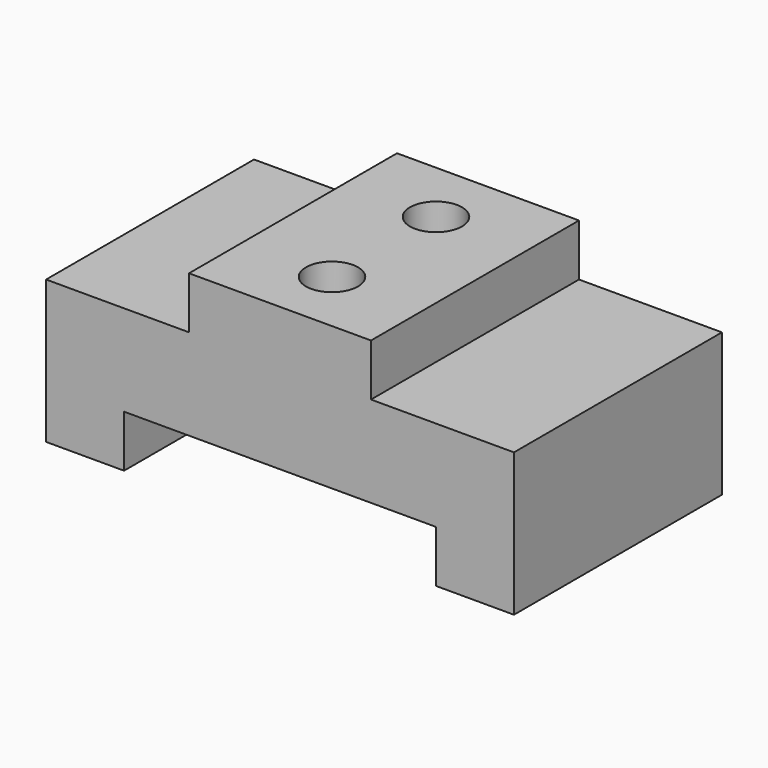
from build123d import *

# Parameters (mm, degrees)
F1_DEPTH = 63.5
F3_D     = 12.7
F4_D     = 12.7


with BuildPart() as f1:
    # F0 (on Front) → F1 (new body)
    with BuildSketch(Plane.XZ):
        Polygon((-38.1, -12.7), (-38.1, 0), (38.1, 0), (38.1, -12.7), (57.15, -12.7), (57.15, 22.225), (22.225, 22.225), (22.225, 34.925), (-22.225, 34.925), (-22.225, 22.225), (-57.15, 22.225), (-57.15, -12.7), align=None)
    extrude(amount=F1_DEPTH)

    # F3 (through all)
    with Locations(Plane(origin=(0, 0, 0), x_dir=(1, 0, 0), z_dir=(0, 0, -1))):
        with Locations((0, 47.625)):
            Hole(F3_D / 2)

    # F4 (through all)
    with Locations(Plane(origin=(0, 0, 0), x_dir=(1, 0, 0), z_dir=(0, 0, -1))):
        with Locations((0, 15.875)):
            Hole(F4_D / 2)


solid = f1.part
